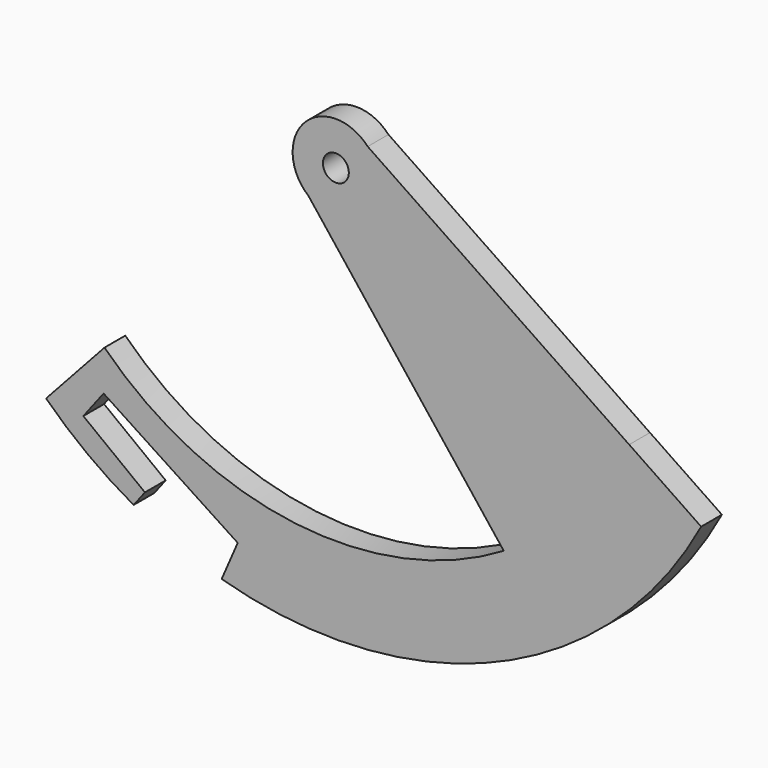
from build123d import *

# Parameters (mm, degrees)
F0_R     = 1.5
F1_DEPTH = 3


with BuildPart() as f1:
    # F0 (on Front) → F1 (new body)
    with BuildSketch(Plane.XZ):
        with BuildLine():
            Line((-26.7590332408, -26.9893127833), (-33.513986566, -34.3629554092))
            ThreePointArc((-33.513986566, -34.3629554092), (-28.7006868675, -38.4742845721), (-23.3882283922, -41.9164737624))
            Line((-23.3882283922, -41.9164737624), (-22.0817974828, -40.2095238804))
            Line((-22.0817974828, -40.2095238804), (-29.2077852351, -34.7555789474))
            Line((-29.2077852351, -34.7555789474), (-26.8623996161, -31.6911568821))
            Line((-26.8623996161, -31.6911568821), (-11.347123086, -41.8631082631))
            Line((-11.347123086, -41.8631082631), (-13.2070884844, -46.1472947611))
            ThreePointArc((-13.2070884844, -46.1472947611), (18.6383866234, -44.2335906758), (42.2503176476, -22.7796105911))
            Line((42.2503176476, -22.7796105911), (33.9254719283, -17.1327528127))
            ThreePointArc((33.9254719283, -17.1327528127), (27.7817312866, -25.9353864674), (19.4217144818, -32.6690353559))
            ThreePointArc((19.4217144818, -32.6690353559), (-4.6393829081, -37.7219430932), (-26.7590332408, -26.9893127833))
        make_face()
        with BuildLine():
            ThreePointArc((19.4217144818, -32.6690353559), (27.7817312866, -25.9353864674), (33.9254719283, -17.1327528127))
            Line((33.9254719283, -17.1327528127), (3.6842398683, 3.3802923827))
            ThreePointArc((3.6842398683, 3.3802923827), (4.6594634531, 1.8136704026), (5, 0))
            ThreePointArc((5, 0), (2.1369907055, -4.5203175469), (-3.1733082899, -3.8639506334))
            Line((-3.1733082899, -3.8639506334), (19.4217144818, -32.6690353559))
        make_face()
        with BuildLine():
            ThreePointArc((5, 0), (4.6594634531, 1.8136704026), (3.6842398683, 3.3802923827))
            ThreePointArc((3.6842398683, 3.3802923827), (-3.6311192474, 3.4372915226), (-3.1733082899, -3.8639506334))
            ThreePointArc((-3.1733082899, -3.8639506334), (2.1369907055, -4.5203175469), (5, 0))
        make_face()
        Circle(F0_R, mode=Mode.SUBTRACT)
    extrude(amount=F1_DEPTH)


solid = f1.part
